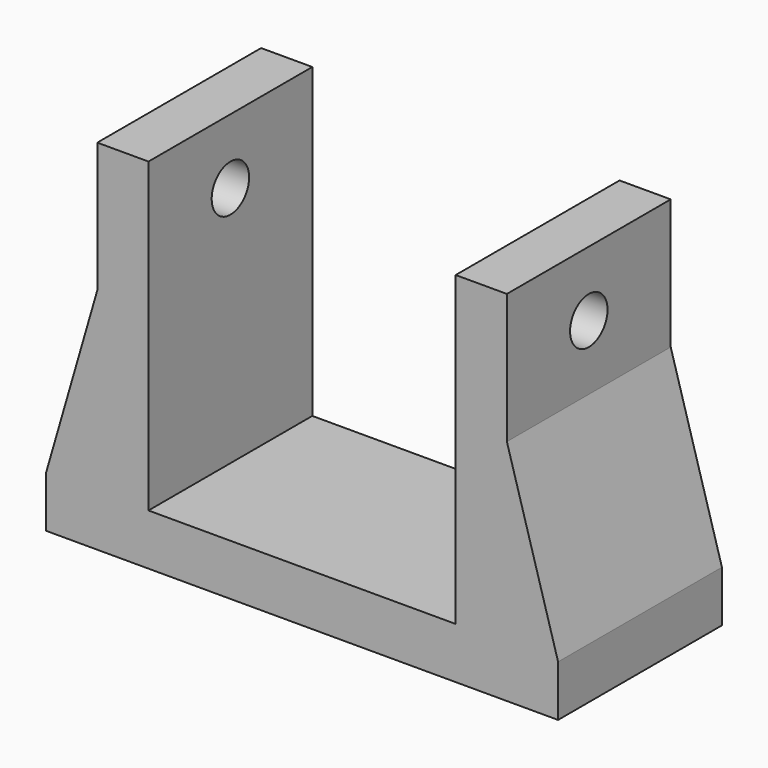
from build123d import *

# Parameters (mm, degrees)
F0_W     = 50
F0_H     = 20
F1_DEPTH = 5
F2_W     = 10
F2_H     = 20
F3_DEPTH = 30
F5_DEPTH = 20.001
F6_R     = 2.286
F7_DEPTH = 45.001


with BuildPart() as f1:
    # F0 (on Top) → F1 (new body)
    with BuildSketch(Plane.XY):
        Rectangle(F0_W, F0_H)
    extrude(amount=F1_DEPTH)

    # F2 (on face) → F3 (join)
    with BuildSketch(Plane.XY.offset(5)):
        with Locations((20, 0)):
            Rectangle(F2_W, F2_H)
        with Locations((-20, 0)):
            Rectangle(F2_W, F2_H)
    extrude(amount=F3_DEPTH)

    # F4 (on face) → F5 (cut, through all)
    with BuildSketch(Plane(origin=(0, 10, 0), x_dir=(-1, 0, 0), z_dir=(0, 1, 0))):
        Polygon((-25, 5), (-20, 22.3), (-20, 35), (-25, 35), align=None)
        Polygon((20, 35), (20, 22.3), (25, 5), (25, 35), align=None)
    extrude(amount=-F5_DEPTH, mode=Mode.SUBTRACT)

    # F6 (on face) → F7 (cut, through all)
    with BuildSketch(Plane(origin=(-20, 0, 0), x_dir=(0, -1, 0), z_dir=(-1, 0, 0))):
        with Locations((0, 28.65)):
            Circle(F6_R)
    extrude(amount=-F7_DEPTH, mode=Mode.SUBTRACT)


solid = f1.part
